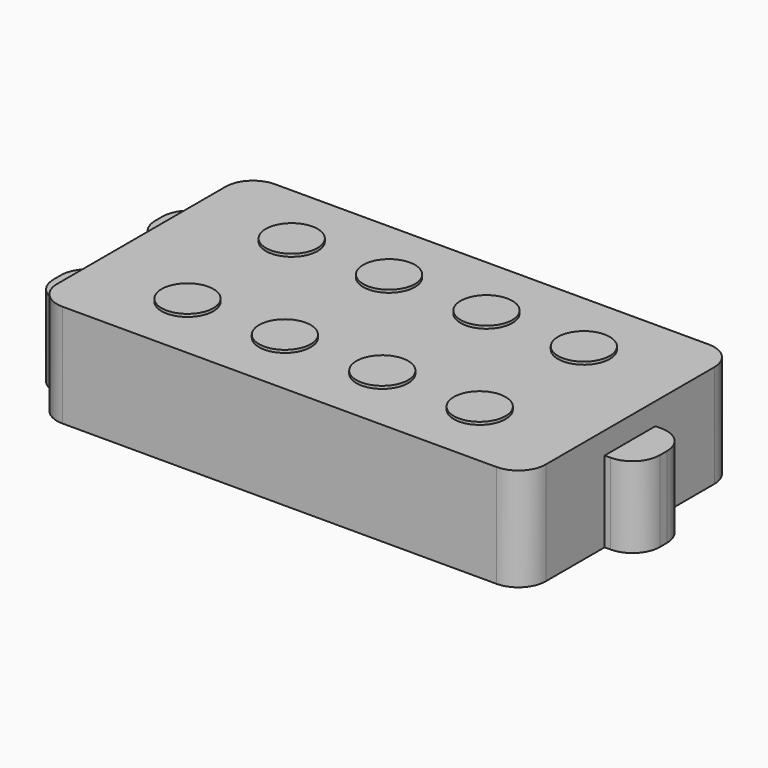
from build123d import *

# Parameters (mm, degrees)
F0_W     = 89.31
F0_H     = 48.5
F1_DEPTH = 18.8
F2_R     = 4.73
F3_DEPTH = 0.5
F4_R     = 5
F6_DEPTH = 14.78
F8_DEPTH = 14.78


with BuildPart() as f1:
    # F0 (on Top) → F1 (new body)
    with BuildSketch(Plane.XY):
        Rectangle(F0_W, F0_H)
    extrude(amount=F1_DEPTH)

    # F2 (on face) → F3 (join)
    with BuildSketch(Plane.XY.offset(18.8)):
        with Locations((-26.7, 11.9)):
            Circle(F2_R)
        with Locations((-26.7, -11.9)):
            Circle(F2_R)
        with Locations((-8.9, 11.9)):
            Circle(F2_R)
        with Locations((-8.9, -11.9)):
            Circle(F2_R)
        with Locations((8.9, 11.9)):
            Circle(F2_R)
        with Locations((8.9, -11.9)):
            Circle(F2_R)
        with Locations((26.7, 11.9)):
            Circle(F2_R)
        with Locations((26.7, -11.9)):
            Circle(F2_R)
    extrude(amount=F3_DEPTH)

    # F4
    f4_edges = [f1.edges().sort_by_distance(p)[0] for p in [
        (-44.655, 24.25, 9.4),
        (-44.655, -24.25, 9.4),
        (44.655, -24.25, 9.4),
        (44.655, 24.25, 9.4),
    ]]
    fillet(f4_edges, radius=F4_R)

    # F5 (on Top) → F6 (join)
    with BuildSketch(Plane.XY):
        with BuildLine():
            Line((45.75, 5.8), (44.655, 5.8))
            Line((44.655, 5.8), (44.655, -5.8))
            Line((44.655, -5.8), (45.75, -5.8))
            ThreePointArc((45.75, -5.8), (49.285534, -4.335534), (50.75, -0.8))
            Line((50.75, -0.8), (50.75, 0.8))
            ThreePointArc((50.75, 0.8), (49.285534, 4.335534), (45.75, 5.8))
        make_face()
    extrude(amount=F6_DEPTH)

    # F7 (on Top) → F8 (join)
    with BuildSketch(Plane.XY):
        with BuildLine():
            ThreePointArc((-50.75, 10.8), (-49.285534, 7.264466), (-45.75, 5.8))
            Line((-45.75, 5.8), (-44.655, 5.8))
            Line((-44.655, 5.8), (-44.655, 17.4))
            Line((-44.655, 17.4), (-45.75, 17.4))
            ThreePointArc((-45.75, 17.4), (-49.285534, 15.935534), (-50.75, 12.4))
            Line((-50.75, 12.4), (-50.75, 10.8))
        make_face()
        with BuildLine():
            Line((-45.75, -17.4), (-44.655, -17.4))
            Line((-44.655, -17.4), (-44.655, -5.8))
            Line((-44.655, -5.8), (-45.75, -5.8))
            ThreePointArc((-45.75, -5.8), (-49.285534, -7.264466), (-50.75, -10.8))
            Line((-50.75, -10.8), (-50.75, -12.4))
            ThreePointArc((-50.75, -12.4), (-49.285534, -15.935534), (-45.75, -17.4))
        make_face()
    extrude(amount=F8_DEPTH)


solid = f1.part
